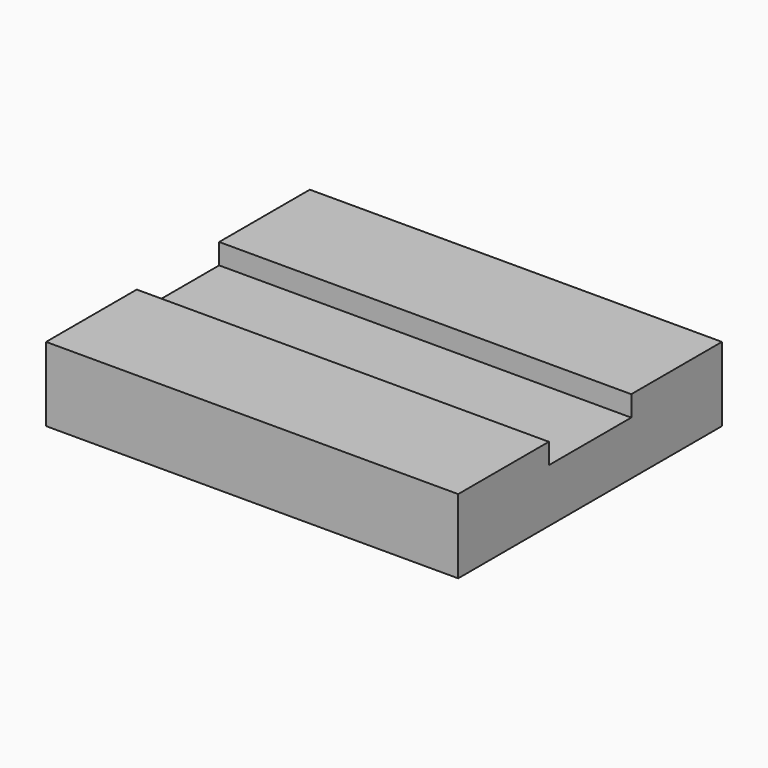
from build123d import *

# Parameters (mm, degrees)
F0_W     = 100
F0_H     = 80
F1_DEPTH = 18
F2_W     = 25
F2_H     = 10
F3_DEPTH = 100.001


with BuildPart() as f1:
    # F0 (on Top) → F1 (new body)
    with BuildSketch(Plane.XY):
        with Locations((0, 18.116883)):
            Rectangle(F0_W, F0_H)
    extrude(amount=F1_DEPTH)

    # F2 (on face) → F3 (cut, through all)
    with BuildSketch(Plane.YZ.offset(50)):
        with Locations((18.116883, 18)):
            Rectangle(F2_W, F2_H)
    extrude(amount=-F3_DEPTH, mode=Mode.SUBTRACT)


solid = f1.part
